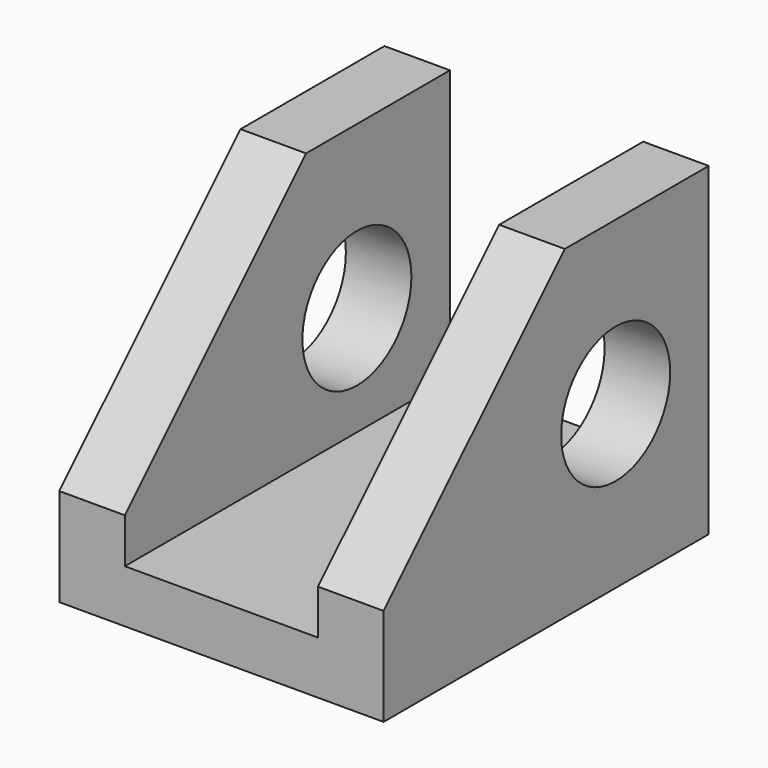
from build123d import *

# Parameters (mm, degrees)
F0_W          = 40
F0_H          = 40
F1_DEPTH      = 42.38128
F1_DEPTH_BACK = 7.75136
F2_W          = 11.914433
F2_H          = 33.472474
F3_DEPTH      = 52.48423
F4_SIZE       = 27.94
F5_R          = 8.402313
F6_DEPTH      = 40


with BuildPart() as f1:
    # F0 (on Front) → F1 (new body, two sides)
    with BuildSketch(Plane.XZ) as f1_sk:
        Rectangle(F0_W, F0_H)
    extrude(amount=F1_DEPTH)
    extrude(f1_sk.sketch, amount=-F1_DEPTH_BACK)

    # F2 (on face) → F3 (cut)
    with BuildSketch(Plane.XZ.offset(42.38128)):
        with Locations((-5.957216, 3.263763)):
            Rectangle(F2_W, F2_H)
        with Locations((5.957216, 3.263763)):
            Rectangle(F2_W, F2_H)
    extrude(amount=-F3_DEPTH, mode=Mode.SUBTRACT)

    # F4
    f4_edges = [f1.edges().sort_by_distance(p)[0] for p in [
        (-15.957216, -42.38128, 20),
        (15.957216, -42.38128, 20),
    ]]
    chamfer(f4_edges, length=F4_SIZE)

    # F5 (on face) → F6 (cut)
    with BuildSketch(Plane.YZ.offset(20)):
        with Locations((-6.598762, 0)):
            Circle(F5_R)
    extrude(amount=-F6_DEPTH, mode=Mode.SUBTRACT)


solid = f1.part
